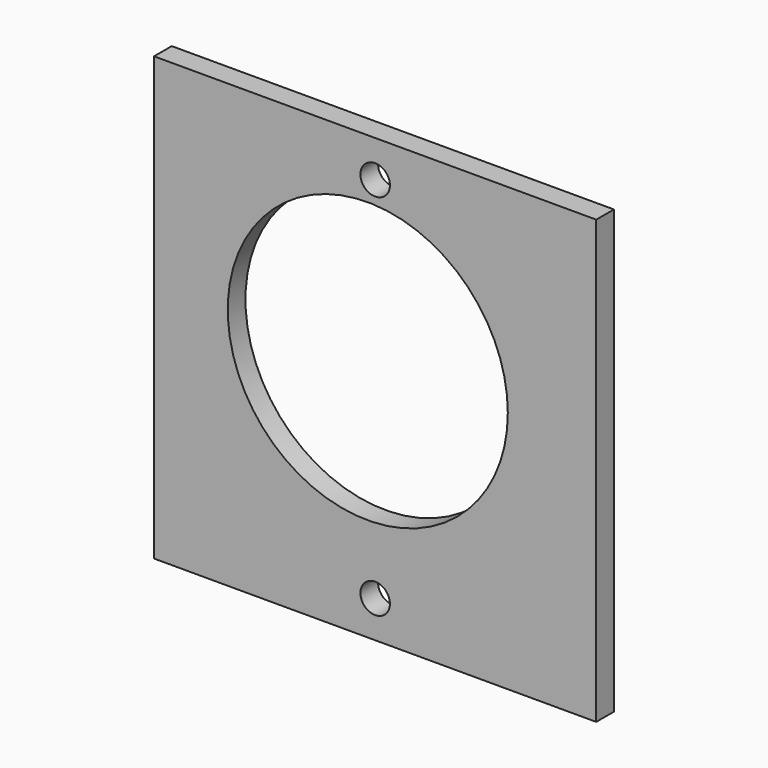
from build123d import *

# Parameters (mm, degrees)
F0_W     = 60
F0_H     = 60
F0_R     = 2
F0_R_2   = 19
F1_DEPTH = 3


with BuildPart() as f1:
    # F0 (on Front) → F1 (new body)
    with BuildSketch(Plane.XZ):
        Rectangle(F0_W, F0_H)
        with Locations((0, -25)):
            Circle(F0_R, mode=Mode.SUBTRACT)
        with Locations((-1, 3)):
            Circle(F0_R_2, mode=Mode.SUBTRACT)
        with Locations((0, 25)):
            Circle(F0_R, mode=Mode.SUBTRACT)
    extrude(amount=F1_DEPTH)


solid = f1.part
